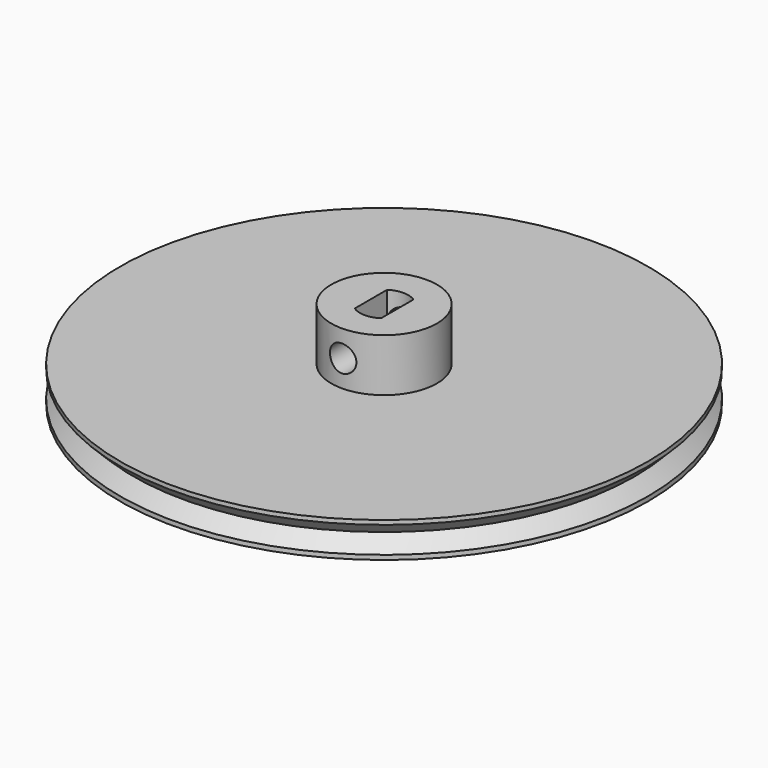
from build123d import *

# Parameters (mm, degrees)
F0_R     = 30
F0_R_2   = 6
F1_DEPTH = 4
F2_DEPTH = 6
F3_R     = 1.5
F4_DEPTH = 12.5
F5_W     = 3
F5_H     = 4.6
F6_DEPTH = 9.4


with BuildPart() as f1:
    # F0 (on Top) → F1 (new body)
    with BuildSketch(Plane.XY):
        Circle(F0_R)
        Circle(F0_R_2, mode=Mode.SUBTRACT)
        Circle(F0_R_2)
    extrude(amount=-F1_DEPTH)

    # F0 (on Top) → F2 (join)
    with BuildSketch(Plane.XY):
        Circle(F0_R_2)
    extrude(amount=F2_DEPTH)

    # F3 (on Front) → F4 (cut, symmetric)
    with BuildSketch(Plane.XZ):
        with Locations((0, 3)):
            Circle(F3_R)
    extrude(amount=F4_DEPTH, both=True, mode=Mode.SUBTRACT)

    # F5 (on face) → F6 (cut)
    with BuildSketch(Plane.XY.offset(6)):
        with BuildLine():
            ThreePointArc((1.5, 2.3), (0, 2.747197), (-1.5, 2.3))
            Line((-1.5, 2.3), (1.5, 2.3))
        make_face()
        Rectangle(F5_W, F5_H)
        with BuildLine():
            Line((1.5, -2.3), (-1.5, -2.3))
            ThreePointArc((-1.5, -2.3), (0, -2.752803), (1.5, -2.3))
        make_face()
    extrude(amount=-F6_DEPTH, mode=Mode.SUBTRACT)

    # F7 (on Front) → F8 (revolve, cut)
    with BuildSketch(Plane.XZ):
        Polygon((30, -3.483821), (30, -0.483821), (28.5, -1.983821), align=None)
    revolve(axis=Axis((0, 0, -0.420868), (0, 0, -1)), mode=Mode.SUBTRACT)


solid = f1.part
